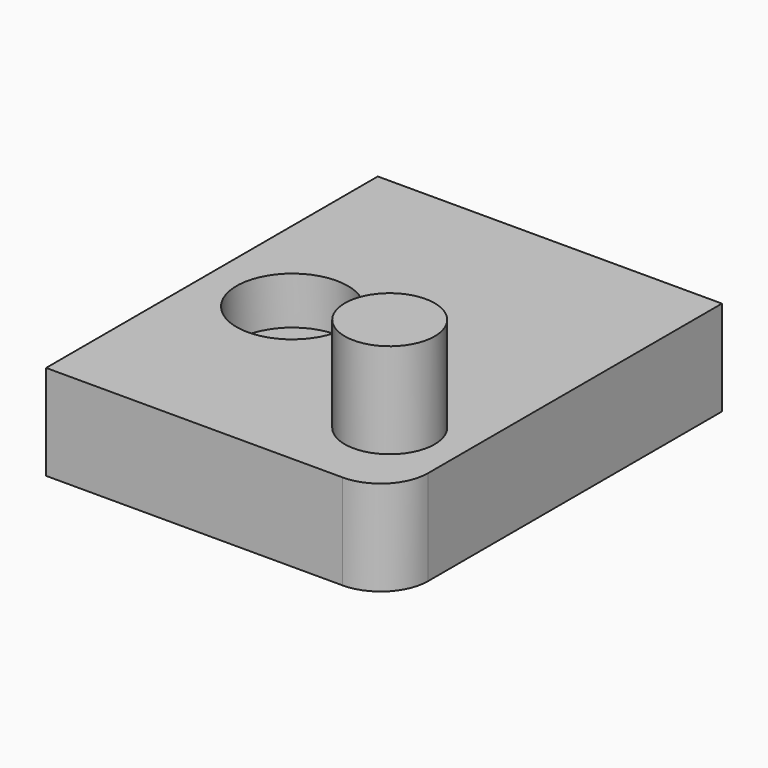
from build123d import *

# Parameters (mm, degrees)
F0_W     = 91.952633
F0_H     = 110.787436
F1_DEPTH = 25.4
F2_R     = 12.7
F3_R     = 12.002281
F4_DEPTH = 25.4
F5_R     = 14.878246
F6_DEPTH = 12.7


with BuildPart() as f1:
    # F0 (on Top) → F1 (new body)
    with BuildSketch(Plane.XY):
        with Locations((-0.07054, 15.842587)):
            Rectangle(F0_W, F0_H)
    extrude(amount=F1_DEPTH)

    # F2
    f2_edges = [f1.edges().sort_by_distance(p)[0] for p in [
        (45.905776, -39.551131, 12.7),
    ]]
    fillet(f2_edges, radius=F2_R)

    # F3 (on face) → F4 (join)
    with BuildSketch(Plane.XY.offset(25.4)):
        with Locations((26.824998, -15.86362)):
            Circle(F3_R)
    extrude(amount=F4_DEPTH)

    # F5 (on face) → F6 (cut)
    with BuildSketch(Plane.XY.offset(25.4)):
        with Locations((-23.274958, 14.206306)):
            Circle(F5_R)
    extrude(amount=-F6_DEPTH, mode=Mode.SUBTRACT)


solid = f1.part
